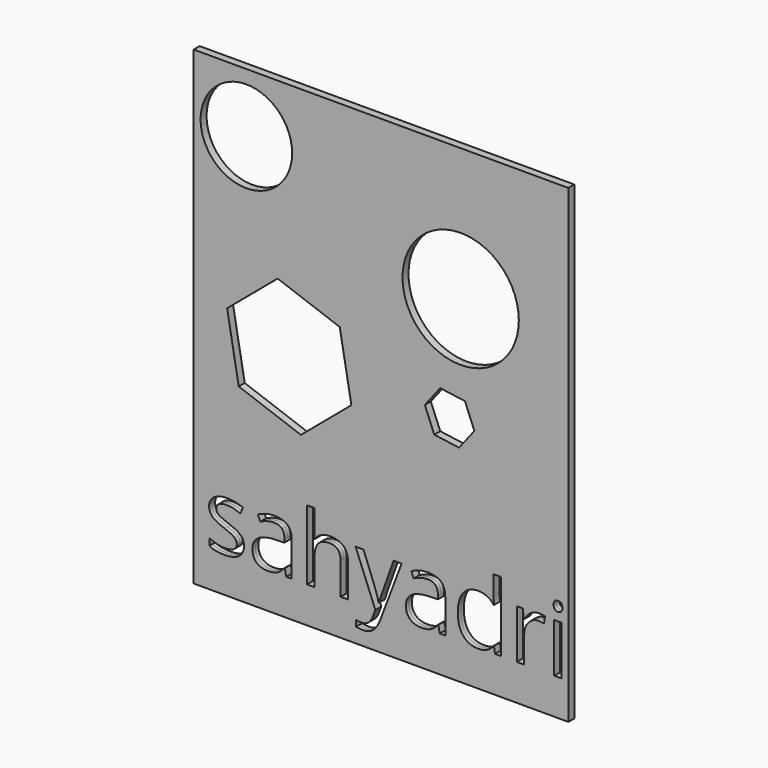
from build123d import *

# Parameters (mm, degrees)
F0_W     = 50
F0_H     = 62.7423850748
F0_W_2   = 0.9926764566
F0_H_2   = 6.5508995451
F0_R     = 6.1052474889
F0_R_2   = 7.7606932232
F1_DEPTH = 0.5


with BuildPart() as f1:
    # F0 (on Front) → F1 (new body, symmetric)
    with BuildSketch(Plane.XZ):
        with Locations((-5.7231131941, 3.8917139173)):
            Rectangle(F0_W, F0_H)
        with BuildLine():
            add(Edge.make_bspline(
                [(-24.4238293419, -19.7945098237), (-24.0145176623, -20.2248608888), (-24.0145176623, -20.8770818362)],
                knots=[0, 0, 0, 1, 1, 1], degree=2))
            add(Edge.make_bspline(
                [(-24.0145176623, -20.8770818362), (-24.0145176623, -21.7913387654), (-24.6954286807, -22.2876769937)],
                knots=[0, 0, 0, 1, 1, 1], degree=2))
            add(Edge.make_bspline(
                [(-24.6954286807, -22.2876769937), (-25.3763396991, -22.784015222), (-26.6081000808, -22.784015222)],
                knots=[0, 0, 0, 1, 1, 1], degree=2))
            add(Edge.make_bspline(
                [(-26.6081000808, -22.784015222), (-27.9106293042, -22.784015222), (-28.6393571076, -22.3708781996)],
                knots=[0, 0, 0, 1, 1, 1], degree=2))
            Line((-28.6393571076, -22.3708781996), (-28.6393571076, -21.4508832562))
            add(Edge.make_bspline(
                [(-28.6393571076, -21.4508832562), (-28.1669272718, -21.6899671812), (-27.6265976013, -21.8267231863)],
                knots=[0, 0, 0, 1, 1, 1], degree=2))
            add(Edge.make_bspline(
                [(-27.6265976013, -21.8267231863), (-27.0862679308, -21.9634791914), (-26.5832353526, -21.9634791914)],
                knots=[0, 0, 0, 1, 1, 1], degree=2))
            add(Edge.make_bspline(
                [(-26.5832353526, -21.9634791914), (-25.8066907641, -21.9634791914), (-25.3887720632, -21.7157882451)],
                knots=[0, 0, 0, 1, 1, 1], degree=2))
            add(Edge.make_bspline(
                [(-25.3887720632, -21.7157882451), (-24.9708533623, -21.4680972988), (-24.9708533623, -20.9593267064)],
                knots=[0, 0, 0, 1, 1, 1], degree=2))
            add(Edge.make_bspline(
                [(-24.9708533623, -20.9593267064), (-24.9708533623, -20.5767924264), (-25.3017455145, -20.3051930876)],
                knots=[0, 0, 0, 1, 1, 1], degree=2))
            add(Edge.make_bspline(
                [(-25.3017455145, -20.3051930876), (-25.6326376667, -20.0335937487), (-26.5966240524, -19.6625354971)],
                knots=[0, 0, 0, 1, 1, 1], degree=2))
            add(Edge.make_bspline(
                [(-26.5966240524, -19.6625354971), (-27.5108809816, -19.3220799879), (-27.8962842687, -19.0676946917)],
                knots=[0, 0, 0, 1, 1, 1], degree=2))
            add(Edge.make_bspline(
                [(-27.8962842687, -19.0676946917), (-28.2816875558, -18.8133093955), (-28.4700856887, -18.4910242646)],
                knots=[0, 0, 0, 1, 1, 1], degree=2))
            add(Edge.make_bspline(
                [(-28.4700856887, -18.4910242646), (-28.6584838216, -18.1687391337), (-28.6584838216, -17.7211740261)],
                knots=[0, 0, 0, 1, 1, 1], degree=2))
            add(Edge.make_bspline(
                [(-28.6584838216, -17.7211740261), (-28.6584838216, -16.9197647095), (-28.0062628742, -16.455941895)],
                knots=[0, 0, 0, 1, 1, 1], degree=2))
            add(Edge.make_bspline(
                [(-28.0062628742, -16.455941895), (-27.3540419268, -15.9921190805), (-26.2198277866, -15.9921190805)],
                knots=[0, 0, 0, 1, 1, 1], degree=2))
            add(Edge.make_bspline(
                [(-26.2198277866, -15.9921190805), (-25.1621205023, -15.9921190805), (-24.1503173317, -16.4224701455)],
                knots=[0, 0, 0, 1, 1, 1], degree=2))
            Line((-24.1503173317, -16.4224701455), (-24.5041615407, -17.2296174763))
            add(Edge.make_bspline(
                [(-24.5041615407, -17.2296174763), (-25.4891873117, -16.8241311395), (-26.2905966284, -16.8241311395)],
                knots=[0, 0, 0, 1, 1, 1], degree=2))
            add(Edge.make_bspline(
                [(-26.2905966284, -16.8241311395), (-26.996372375, -16.8241311395), (-27.3549982625, -17.0450446862)],
                knots=[0, 0, 0, 1, 1, 1], degree=2))
            add(Edge.make_bspline(
                [(-27.3549982625, -17.0450446862), (-27.71362415, -17.2659582329), (-27.71362415, -17.6542305271)],
                knots=[0, 0, 0, 1, 1, 1], degree=2))
            add(Edge.make_bspline(
                [(-27.71362415, -17.6542305271), (-27.71362415, -17.9181791803), (-27.5787808163, -18.1027519704)],
                knots=[0, 0, 0, 1, 1, 1], degree=2))
            add(Edge.make_bspline(
                [(-27.5787808163, -18.1027519704), (-27.4439374826, -18.2873247605), (-27.1455607442, -18.454683508)],
                knots=[0, 0, 0, 1, 1, 1], degree=2))
            add(Edge.make_bspline(
                [(-27.1455607442, -18.454683508), (-26.8471840058, -18.6220422555), (-25.9979579042, -18.9395457079)],
                knots=[0, 0, 0, 1, 1, 1], degree=2))
            add(Edge.make_bspline(
                [(-25.9979579042, -18.9395457079), (-24.8331410215, -19.3641587587), (-24.4238293419, -19.7945098237)],
                knots=[0, 0, 0, 1, 1, 1], degree=2))
        make_face(mode=Mode.SUBTRACT)
        with BuildLine():
            Line((-17.6357585432, -22.6635169238), (-18.3721370322, -22.6635169238))
            Line((-18.3721370322, -22.6635169238), (-18.5691421864, -21.7301332806))
            Line((-18.5691421864, -21.7301332806), (-18.6169589714, -21.7301332806))
            add(Edge.make_bspline(
                [(-18.6169589714, -21.7301332806), (-19.1066028499, -22.3460134714), (-19.5933777212, -22.5650143467)],
                knots=[0, 0, 0, 1, 1, 1], degree=2))
            add(Edge.make_bspline(
                [(-19.5933777212, -22.5650143467), (-20.0801525925, -22.784015222), (-20.8107930673, -22.784015222)],
                knots=[0, 0, 0, 1, 1, 1], degree=2))
            add(Edge.make_bspline(
                [(-20.8107930673, -22.784015222), (-21.7843428099, -22.784015222), (-22.3371048445, -22.2809826438)],
                knots=[0, 0, 0, 1, 1, 1], degree=2))
            add(Edge.make_bspline(
                [(-22.3371048445, -22.2809826438), (-22.8898668791, -21.7779500656), (-22.8898668791, -20.852217108)],
                knots=[0, 0, 0, 1, 1, 1], degree=2))
            add(Edge.make_bspline(
                [(-22.8898668791, -20.852217108), (-22.8898668791, -18.8687768661), (-19.7167450265, -18.7731432961)],
                knots=[0, 0, 0, 1, 1, 1], degree=2))
            Line((-19.7167450265, -18.7731432961), (-18.605482943, -18.7368025395))
            Line((-18.605482943, -18.7368025395), (-18.605482943, -18.3294035313))
            add(Edge.make_bspline(
                [(-18.605482943, -18.3294035313), (-18.605482943, -17.5585969571), (-18.9363750953, -17.1913640483)],
                knots=[0, 0, 0, 1, 1, 1], degree=2))
            add(Edge.make_bspline(
                [(-18.9363750953, -17.1913640483), (-19.2672672475, -16.8241311395), (-19.9979077223, -16.8241311395)],
                knots=[0, 0, 0, 1, 1, 1], degree=2))
            add(Edge.make_bspline(
                [(-19.9979077223, -16.8241311395), (-20.8165310815, -16.8241311395), (-21.8493736375, -17.3252510463)],
                knots=[0, 0, 0, 1, 1, 1], degree=2))
            Line((-21.8493736375, -17.3252510463), (-22.1554010615, -16.5659205005))
            add(Edge.make_bspline(
                [(-22.1554010615, -16.5659205005), (-21.6714951973, -16.3038845187), (-21.0948247702, -16.1546961495)],
                knots=[0, 0, 0, 1, 1, 1], degree=2))
            add(Edge.make_bspline(
                [(-21.0948247702, -16.1546961495), (-20.5181543431, -16.0055077803), (-19.9367022375, -16.0055077803)],
                knots=[0, 0, 0, 1, 1, 1], degree=2))
            add(Edge.make_bspline(
                [(-19.9367022375, -16.0055077803), (-18.7661473406, -16.0055077803), (-18.2009529419, -16.5247980654)],
                knots=[0, 0, 0, 1, 1, 1], degree=2))
            add(Edge.make_bspline(
                [(-18.2009529419, -16.5247980654), (-17.6357585432, -17.0440883505), (-17.6357585432, -18.1916911905)],
                knots=[0, 0, 0, 1, 1, 1], degree=2))
            Line((-17.6357585432, -18.1916911905), (-17.6357585432, -22.6635169238))
        make_face(mode=Mode.SUBTRACT)
        with BuildLine():
            Line((-6.4772335955, -22.6998576804), (-9.1205454703, -16.1126173787))
            Line((-9.1205454703, -16.1126173787), (-8.0551875005, -16.1126173787))
            Line((-8.0551875005, -16.1126173787), (-6.6206839505, -19.8480646229))
            add(Edge.make_bspline(
                [(-6.6206839505, -19.8480646229), (-6.1501667861, -21.1276417896), (-6.0354065021, -21.6957051954)],
                knots=[0, 0, 0, 1, 1, 1], degree=2))
            Line((-6.0354065021, -21.6957051954), (-5.9875897171, -21.6957051954))
            add(Edge.make_bspline(
                [(-5.9875897171, -21.6957051954), (-5.9110828611, -21.3896777714), (-5.6624355791, -20.651386611)],
                knots=[0, 0, 0, 1, 1, 1], degree=2))
            add(Edge.make_bspline(
                [(-5.6624355791, -20.651386611), (-5.4137882971, -19.9130954505), (-4.0385775604, -16.1126173787)],
                knots=[0, 0, 0, 1, 1, 1], degree=2))
            Line((-4.0385775604, -16.1126173787), (-2.975132262, -16.1126173787))
            Line((-2.975132262, -16.1126173787), (-5.7905845629, -23.5720358388))
            add(Edge.make_bspline(
                [(-5.7905845629, -23.5720358388), (-6.2094595995, -24.677559908), (-6.7679596483, -25.1413827225)],
                knots=[0, 0, 0, 1, 1, 1], degree=2))
            add(Edge.make_bspline(
                [(-6.7679596483, -25.1413827225), (-7.3264596971, -25.605205537), (-8.1393450421, -25.605205537)],
                knots=[0, 0, 0, 1, 1, 1], degree=2))
            add(Edge.make_bspline(
                [(-8.1393450421, -25.605205537), (-8.5945608353, -25.605205537), (-9.0363879287, -25.5019212814)],
                knots=[0, 0, 0, 1, 1, 1], degree=2))
            Line((-9.0363879287, -25.5019212814), (-9.0363879287, -24.7081626504))
            add(Edge.make_bspline(
                [(-9.0363879287, -24.7081626504), (-8.7074084479, -24.7789314922), (-8.3019221111, -24.7789314922)],
                knots=[0, 0, 0, 1, 1, 1], degree=2))
            add(Edge.make_bspline(
                [(-8.3019221111, -24.7789314922), (-7.2786429121, -24.7789314922), (-6.8425538329, -23.6313286522)],
                knots=[0, 0, 0, 1, 1, 1], degree=2))
            Line((-6.8425538329, -23.6313286522), (-6.4772335955, -22.6998576804))
        make_face(mode=Mode.SUBTRACT)
        with BuildLine():
            Line((-10.1170472697, -22.6635169238), (-11.1097237263, -22.6635169238))
            Line((-11.1097237263, -22.6635169238), (-11.1097237263, -18.4250371013))
            add(Edge.make_bspline(
                [(-11.1097237263, -18.4250371013), (-11.1097237263, -17.6255404561), (-11.474087628, -17.230573812)],
                knots=[0, 0, 0, 1, 1, 1], degree=2))
            add(Edge.make_bspline(
                [(-11.474087628, -17.230573812), (-11.8384515297, -16.8356071679), (-12.6169087896, -16.8356071679)],
                knots=[0, 0, 0, 1, 1, 1], degree=2))
            add(Edge.make_bspline(
                [(-12.6169087896, -16.8356071679), (-13.6497513456, -16.8356071679), (-14.1250501885, -17.3979325595)],
                knots=[0, 0, 0, 1, 1, 1], degree=2))
            add(Edge.make_bspline(
                [(-14.1250501885, -17.3979325595), (-14.6003490314, -17.9602579511), (-14.6003490314, -19.2379224463)],
                knots=[0, 0, 0, 1, 1, 1], degree=2))
            Line((-14.6003490314, -19.2379224463), (-14.6003490314, -22.6635169238))
            Line((-14.6003490314, -22.6635169238), (-15.593025488, -22.6635169238))
            Line((-15.593025488, -22.6635169238), (-15.593025488, -13.3621959055))
            Line((-15.593025488, -13.3621959055), (-14.6003490314, -13.3621959055))
            Line((-14.6003490314, -13.3621959055), (-14.6003490314, -16.1776482063))
            add(Edge.make_bspline(
                [(-14.6003490314, -16.1776482063), (-14.6003490314, -16.6864187987), (-14.6481658164, -17.0211362937)],
                knots=[0, 0, 0, 1, 1, 1], degree=2))
            Line((-14.6481658164, -17.0211362937), (-14.588873003, -17.0211362937))
            add(Edge.make_bspline(
                [(-14.588873003, -17.0211362937), (-14.2962342788, -16.5487064579), (-13.7549482726, -16.2771071191)],
                knots=[0, 0, 0, 1, 1, 1], degree=2))
            add(Edge.make_bspline(
                [(-13.7549482726, -16.2771071191), (-13.2136622664, -16.0055077803), (-12.5212752196, -16.0055077803)],
                knots=[0, 0, 0, 1, 1, 1], degree=2))
            add(Edge.make_bspline(
                [(-12.5212752196, -16.0055077803), (-11.3201175803, -16.0055077803), (-10.718582425, -16.5764401932)],
                knots=[0, 0, 0, 1, 1, 1], degree=2))
            add(Edge.make_bspline(
                [(-10.718582425, -16.5764401932), (-10.1170472697, -17.1473726061), (-10.1170472697, -18.3906090161)],
                knots=[0, 0, 0, 1, 1, 1], degree=2))
            Line((-10.1170472697, -18.3906090161), (-10.1170472697, -22.6635169238))
        make_face(mode=Mode.SUBTRACT)
        Polygon((-11.2299205101, 9.0026970655), (-9.6783690769, 0.323477489), (-16.4190179986, -5.3598152558), (-24.7112183535, -2.3638884239), (-26.2627697867, 6.3153311526), (-19.522120865, 11.9986238973), align=None, mode=Mode.SUBTRACT)
        with BuildLine():
            Line((2.8527774939, -22.6635169238), (2.1163990048, -22.6635169238))
            Line((2.1163990048, -22.6635169238), (1.9193938506, -21.7301332806))
            Line((1.9193938506, -21.7301332806), (1.8715770656, -21.7301332806))
            add(Edge.make_bspline(
                [(1.8715770656, -21.7301332806), (1.3819331872, -22.3460134714), (0.8951583159, -22.5650143467)],
                knots=[0, 0, 0, 1, 1, 1], degree=2))
            add(Edge.make_bspline(
                [(0.8951583159, -22.5650143467), (0.4083834446, -22.784015222), (-0.3222570302, -22.784015222)],
                knots=[0, 0, 0, 1, 1, 1], degree=2))
            add(Edge.make_bspline(
                [(-0.3222570302, -22.784015222), (-1.2958067728, -22.784015222), (-1.8485688074, -22.2809826438)],
                knots=[0, 0, 0, 1, 1, 1], degree=2))
            add(Edge.make_bspline(
                [(-1.8485688074, -22.2809826438), (-2.401330842, -21.7779500656), (-2.401330842, -20.852217108)],
                knots=[0, 0, 0, 1, 1, 1], degree=2))
            add(Edge.make_bspline(
                [(-2.401330842, -20.852217108), (-2.401330842, -18.8687768661), (0.7717910106, -18.7731432961)],
                knots=[0, 0, 0, 1, 1, 1], degree=2))
            Line((0.7717910106, -18.7731432961), (1.883053094, -18.7368025395))
            Line((1.883053094, -18.7368025395), (1.883053094, -18.3294035313))
            add(Edge.make_bspline(
                [(1.883053094, -18.3294035313), (1.883053094, -17.5585969571), (1.5521609418, -17.1913640483)],
                knots=[0, 0, 0, 1, 1, 1], degree=2))
            add(Edge.make_bspline(
                [(1.5521609418, -17.1913640483), (1.2212687896, -16.8241311395), (0.4906283148, -16.8241311395)],
                knots=[0, 0, 0, 1, 1, 1], degree=2))
            add(Edge.make_bspline(
                [(0.4906283148, -16.8241311395), (-0.3279950444, -16.8241311395), (-1.3608376004, -17.3252510463)],
                knots=[0, 0, 0, 1, 1, 1], degree=2))
            Line((-1.3608376004, -17.3252510463), (-1.6668650244, -16.5659205005))
            add(Edge.make_bspline(
                [(-1.6668650244, -16.5659205005), (-1.1829591602, -16.3038845187), (-0.6062887331, -16.1546961495)],
                knots=[0, 0, 0, 1, 1, 1], degree=2))
            add(Edge.make_bspline(
                [(-0.6062887331, -16.1546961495), (-0.029618306, -16.0055077803), (0.5518337996, -16.0055077803)],
                knots=[0, 0, 0, 1, 1, 1], degree=2))
            add(Edge.make_bspline(
                [(0.5518337996, -16.0055077803), (1.7223886964, -16.0055077803), (2.2875830952, -16.5247980654)],
                knots=[0, 0, 0, 1, 1, 1], degree=2))
            add(Edge.make_bspline(
                [(2.2875830952, -16.5247980654), (2.8527774939, -17.0440883505), (2.8527774939, -18.1916911905)],
                knots=[0, 0, 0, 1, 1, 1], degree=2))
            Line((2.8527774939, -18.1916911905), (2.8527774939, -22.6635169238))
        make_face(mode=Mode.SUBTRACT)
        with BuildLine():
            Line((9.4859219092, -22.6635169238), (9.3539475826, -21.7856007512))
            Line((9.3539475826, -21.7856007512), (9.3003927834, -21.7856007512))
            add(Edge.make_bspline(
                [(9.3003927834, -21.7856007512), (8.6137437507, -22.784015222), (7.2442710283, -22.784015222)],
                knots=[0, 0, 0, 1, 1, 1], degree=2))
            add(Edge.make_bspline(
                [(7.2442710283, -22.784015222), (5.9589558475, -22.784015222), (5.2445730796, -21.9051427137)],
                knots=[0, 0, 0, 1, 1, 1], degree=2))
            add(Edge.make_bspline(
                [(5.2445730796, -21.9051427137), (4.5301903117, -21.0262702054), (4.5301903117, -19.4062375295)],
                knots=[0, 0, 0, 1, 1, 1], degree=2))
            add(Edge.make_bspline(
                [(4.5301903117, -19.4062375295), (4.5301903117, -17.7862048537), (5.2474420867, -16.8891619671)],
                knots=[0, 0, 0, 1, 1, 1], degree=2))
            add(Edge.make_bspline(
                [(5.2474420867, -16.8891619671), (5.9646938617, -15.9921190805), (7.2442710283, -15.9921190805)],
                knots=[0, 0, 0, 1, 1, 1], degree=2))
            add(Edge.make_bspline(
                [(7.2442710283, -15.9921190805), (8.5774029941, -15.9921190805), (9.288916755, -16.9618434803)],
                knots=[0, 0, 0, 1, 1, 1], degree=2))
            Line((9.288916755, -16.9618434803), (9.3673362824, -16.9618434803))
            Line((9.3673362824, -16.9618434803), (9.3252575116, -16.4894136445))
            Line((9.3252575116, -16.4894136445), (9.3003927834, -16.0284598371))
            Line((9.3003927834, -16.0284598371), (9.3003927834, -13.3621959055))
            Line((9.3003927834, -13.3621959055), (10.29306924, -13.3621959055))
            Line((10.29306924, -13.3621959055), (10.29306924, -22.6635169238))
            Line((10.29306924, -22.6635169238), (9.4859219092, -22.6635169238))
        make_face(mode=Mode.SUBTRACT)
        with BuildLine():
            add(Edge.make_bspline(
                [(14.2561243808, -16.3392689396), (14.7706329874, -15.9921190805), (15.3865131782, -15.9921190805)],
                knots=[0, 0, 0, 1, 1, 1], degree=2))
            add(Edge.make_bspline(
                [(15.3865131782, -15.9921190805), (15.8226022574, -15.9921190805), (16.1687957808, -16.0648005937)],
                knots=[0, 0, 0, 1, 1, 1], degree=2))
            Line((16.1687957808, -16.0648005937), (16.03108344, -16.9847955371))
            add(Edge.make_bspline(
                [(16.03108344, -16.9847955371), (15.6255971032, -16.8948999813), (15.313831665, -16.8948999813)],
                knots=[0, 0, 0, 1, 1, 1], degree=2))
            add(Edge.make_bspline(
                [(15.313831665, -16.8948999813), (14.5181603626, -16.8948999813), (13.9539222996, -17.5404265788)],
                knots=[0, 0, 0, 1, 1, 1], degree=2))
            add(Edge.make_bspline(
                [(13.9539222996, -17.5404265788), (13.3896842366, -18.1859531763), (13.3896842366, -19.1480268905)],
                knots=[0, 0, 0, 1, 1, 1], degree=2))
            Line((13.3896842366, -19.1480268905), (13.3896842366, -22.6635169238))
            Line((13.3896842366, -22.6635169238), (12.39700778, -22.6635169238))
            Line((12.39700778, -22.6635169238), (12.39700778, -16.1126173787))
            Line((12.39700778, -16.1126173787), (13.2156311392, -16.1126173787))
            Line((13.2156311392, -16.1126173787), (13.3303914232, -17.3252510463))
            Line((13.3303914232, -17.3252510463), (13.3782082082, -17.3252510463))
            add(Edge.make_bspline(
                [(13.3782082082, -17.3252510463), (13.7416157742, -16.6864187987), (14.2561243808, -16.3392689396)],
                knots=[0, 0, 0, 1, 1, 1], degree=2))
        make_face(mode=Mode.SUBTRACT)
        with Locations((17.8911563766, -19.3880671512)):
            Rectangle(F0_W_2, F0_H_2, mode=Mode.SUBTRACT)
        with BuildLine():
            add(Edge.make_bspline(
                [(17.4780193542, -14.8368655549), (17.3106606067, -14.6723758145), (17.3106606067, -14.3376583195)],
                knots=[0, 0, 0, 1, 1, 1], degree=2))
            add(Edge.make_bspline(
                [(17.3106606067, -14.3376583195), (17.3106606067, -13.9972028103), (17.4780193542, -13.8384510841)],
                knots=[0, 0, 0, 1, 1, 1], degree=2))
            add(Edge.make_bspline(
                [(17.4780193542, -13.8384510841), (17.6453781017, -13.6796993579), (17.8978507265, -13.6796993579)],
                knots=[0, 0, 0, 1, 1, 1], degree=2))
            add(Edge.make_bspline(
                [(17.8978507265, -13.6796993579), (18.1369346515, -13.6796993579), (18.3100314132, -13.8413200912)],
                knots=[0, 0, 0, 1, 1, 1], degree=2))
            add(Edge.make_bspline(
                [(18.3100314132, -13.8413200912), (18.4831281749, -14.0029408245), (18.4831281749, -14.3376583195)],
                knots=[0, 0, 0, 1, 1, 1], degree=2))
            add(Edge.make_bspline(
                [(18.4831281749, -14.3376583195), (18.4831281749, -14.6723758145), (18.3100314132, -14.8368655549)],
                knots=[0, 0, 0, 1, 1, 1], degree=2))
            add(Edge.make_bspline(
                [(18.3100314132, -14.8368655549), (18.1369346515, -15.0013552953), (17.8978507265, -15.0013552953)],
                knots=[0, 0, 0, 1, 1, 1], degree=2))
            add(Edge.make_bspline(
                [(17.8978507265, -15.0013552953), (17.6453781017, -15.0013552953), (17.4780193542, -14.8368655549)],
                knots=[0, 0, 0, 1, 1, 1], degree=2))
        make_face(mode=Mode.SUBTRACT)
        Polygon((6.7398424394, 2.6356385464), (4.692950286, 0), (1.3869742729, 0.4548413305), (0.1278904133, 3.5453212073), (2.1747825667, 6.1809597537), (5.4807585798, 5.7261184232), align=None, mode=Mode.SUBTRACT)
        with Locations((-23.6936789006, 27.3564681411)):
            Circle(F0_R, mode=Mode.SUBTRACT)
        with Locations((4.9107022193, 17.551551477)):
            Circle(F0_R_2, mode=Mode.SUBTRACT)
    extrude(amount=F1_DEPTH, both=True)


solid = f1.part
